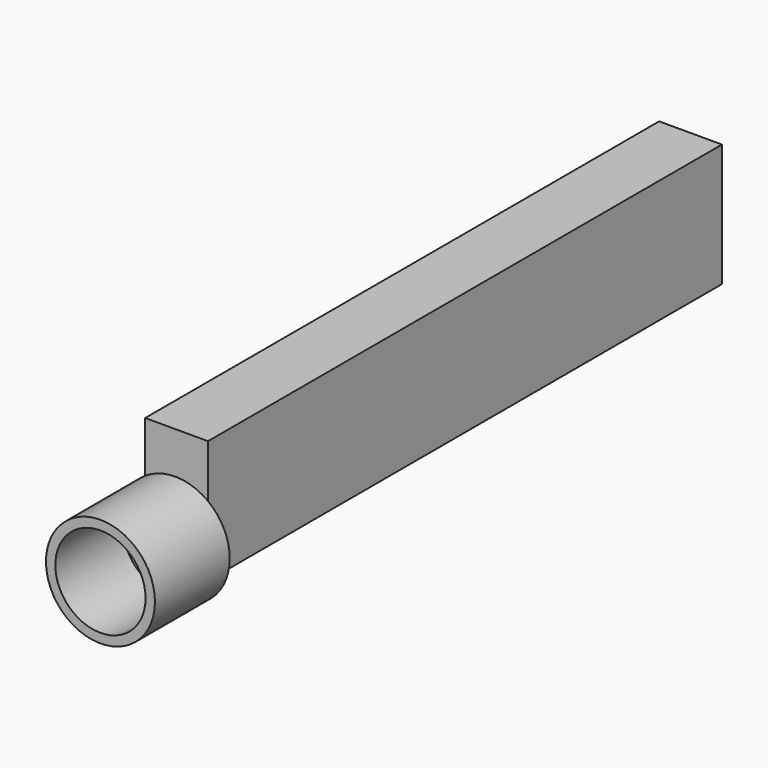
from build123d import *

# Parameters (mm, degrees)
F0_R     = 14.79582
F1_DEPTH = 25.4
F2_T     = -2.54
F3_W     = 17.056221
F3_H     = 33.380184
F4_DEPTH = 174.498


with BuildPart() as f1:
    # F0 (on Front) → F1 (new body)
    with BuildSketch(Plane.XZ):
        with Locations((-10.001251, 5.218043)):
            Circle(F0_R)
    extrude(amount=F1_DEPTH)

    # F2
    f2_openings = [f1.faces().sort_by_distance(p)[0] for p in [
        (-10.001251, -25.4, 5.218043),
    ]]
    offset(amount=F2_T, openings=f2_openings)

    # F3 (on Front) → F4 (join)
    with BuildSketch(Plane.XZ):
        with Locations((-9.636964, 14.683178)):
            Rectangle(F3_W, F3_H)
    extrude(amount=-F4_DEPTH)


solid = f1.part
